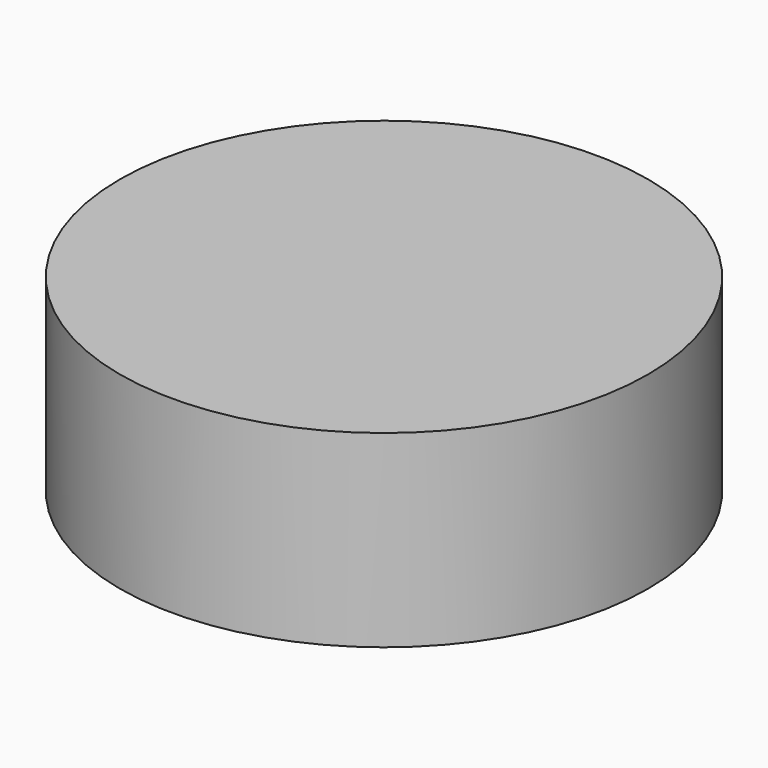
from build123d import *

# Parameters (mm, degrees)
F0_R     = 35
F1_DEPTH = 25
F3_DEPTH = 5


with BuildPart() as f1:
    # F0 (on Top) → F1 (new body)
    with BuildSketch(Plane.XY):
        Circle(F0_R)
    extrude(amount=F1_DEPTH)

    # F2 (on face) → F3 (join)
    with BuildSketch(Plane(origin=(0, 0, 0), x_dir=(1, 0, 0), z_dir=(0, 0, -1))):
        with BuildLine():
            Line((-5, 22.5), (-5, 17.811513))
            ThreePointArc((-5, 17.811513), (-18.5, 0), (-5, -17.811513))
            Line((-5, -17.811513), (-5, -22.5))
            Line((-5, -22.5), (5, -22.5))
            Line((5, -22.5), (5, -17.811513))
            ThreePointArc((5, -17.811513), (18.5, 0), (5, 17.811513))
            Line((5, 17.811513), (5, 22.5))
            Line((5, 22.5), (-5, 22.5))
        make_face()
    extrude(amount=F3_DEPTH)


solid = f1.part
